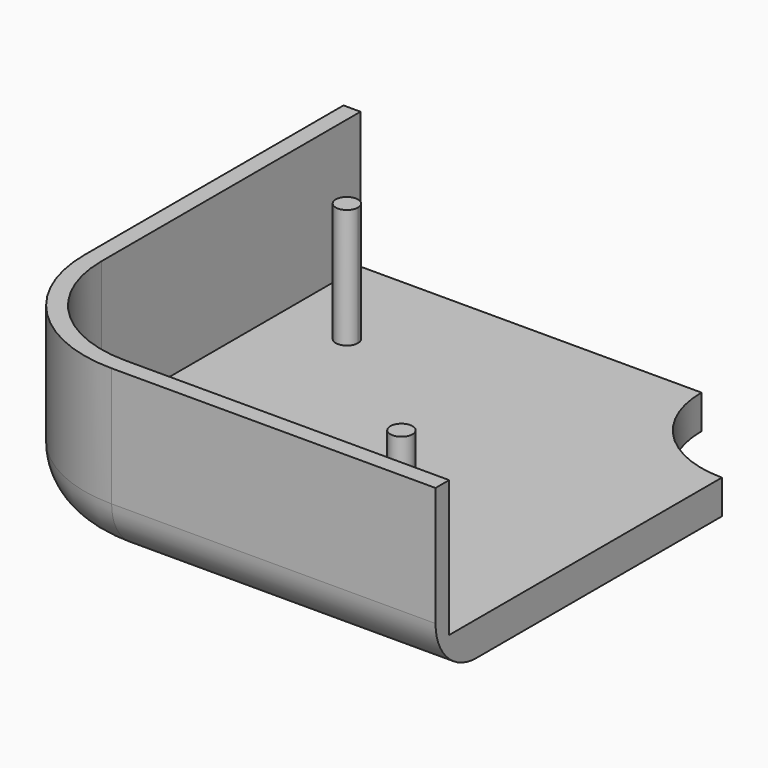
from build123d import *

# Parameters (mm, degrees)
F1_DEPTH = 10
F2_R     = 3
F4_DEPTH = 8
F5_R     = 0.65
F6_DEPTH = 7


with BuildPart() as f1:
    # F0 (on Top) → F1 (new body)
    with BuildSketch(Plane.XY):
        with BuildLine():
            ThreePointArc((0, 8), (2.343146, 2.343146), (8, 0))
            Line((8, 0), (27, 0))
            Line((27, 0), (27, 21))
            ThreePointArc((27, 21), (22.757359, 22.757359), (21, 27))
            Line((21, 27), (0, 27))
            Line((0, 27), (0, 8))
        make_face()
    extrude(amount=F1_DEPTH)

    # F2
    f2_edges = [f1.edges().sort_by_distance(p)[0] for p in [
        (17.5, 0, 0),
        (2.343146, 2.343146, 0),
        (0, 17.5, 0),
    ]]
    fillet(f2_edges, radius=F2_R)

    # F3 (on face) → F4 (cut)
    with BuildSketch(Plane.XY.offset(10)):
        with BuildLine():
            Line((20.071797, 26), (1, 26))
            Line((1, 26), (1, 8))
            ThreePointArc((1, 8), (3.050253, 3.050253), (8, 1))
            Line((8, 1), (26, 1))
            Line((26, 1), (26, 20.071797))
            ThreePointArc((26, 20.071797), (22.050253, 22.050253), (20.071797, 26))
        make_face()
        with BuildLine():
            Line((1, 27), (1, 26))
            Line((1, 26), (20.071797, 26))
            ThreePointArc((20.071797, 26), (22.050253, 22.050253), (26, 20.071797))
            Line((26, 20.071797), (26, 1))
            Line((26, 1), (27, 1))
            Line((27, 1), (27, 21))
            ThreePointArc((27, 21), (22.757359, 22.757359), (21, 27))
            Line((21, 27), (1, 27))
        make_face()
    extrude(amount=-F4_DEPTH, mode=Mode.SUBTRACT)

    # F5 (on face) → F6 (join)
    with BuildSketch(Plane.XY.offset(2)):
        with Locations((21, 5)):
            Circle(F5_R)
        with BuildLine():
            ThreePointArc((5.65, 21), (5.459619, 21.459619), (5, 21.65))
            ThreePointArc((5, 21.65), (4.540381, 20.540381), (5.65, 21))
        make_face()
    extrude(amount=F6_DEPTH)


solid = f1.part
